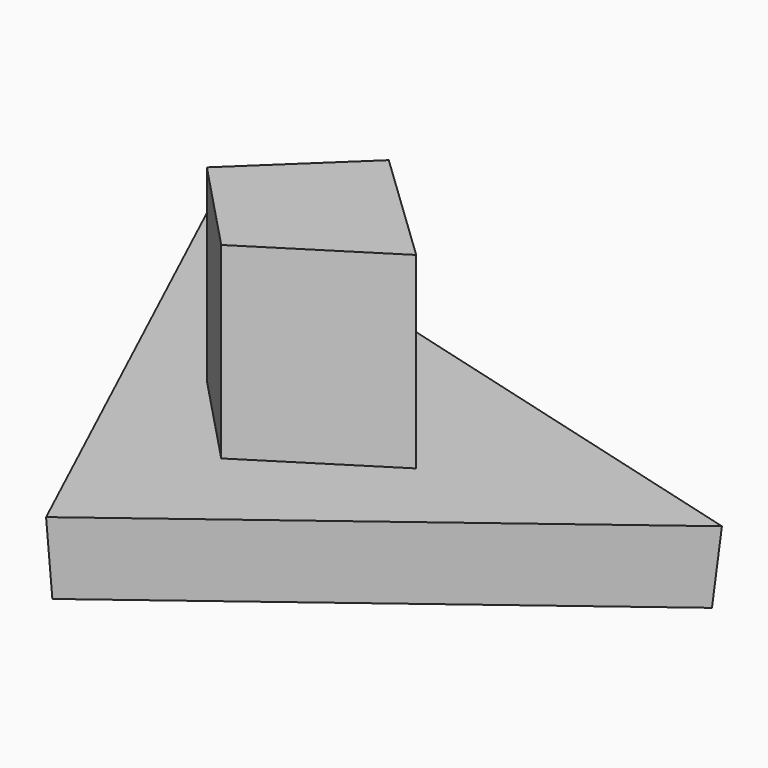
from build123d import *

# Parameters (mm, degrees)
F1_DEPTH = 10
F1_TAPER = -3
F3_DEPTH = 25.4


with BuildPart() as f1:
    # F0 (on Top) → F1 (new body)
    with BuildSketch(Plane.XY):
        Polygon((48.0746775866, 11.5608153865), (-38.0018875003, 35.1403020322), (-7.5545925647, -30.3328335285), align=None)
    extrude(amount=F1_DEPTH, taper=F1_TAPER)

    # F2 (on face) → F3 (join)
    with BuildSketch(Plane.XY.offset(10)):
        Polygon((15.7959666103, 1.945879776), (0, 17.0550644398), (-13.9645496383, 3.7772962824), (-1.6987776623, -9.1229125163), align=None)
    extrude(amount=F3_DEPTH)


solid = f1.part
